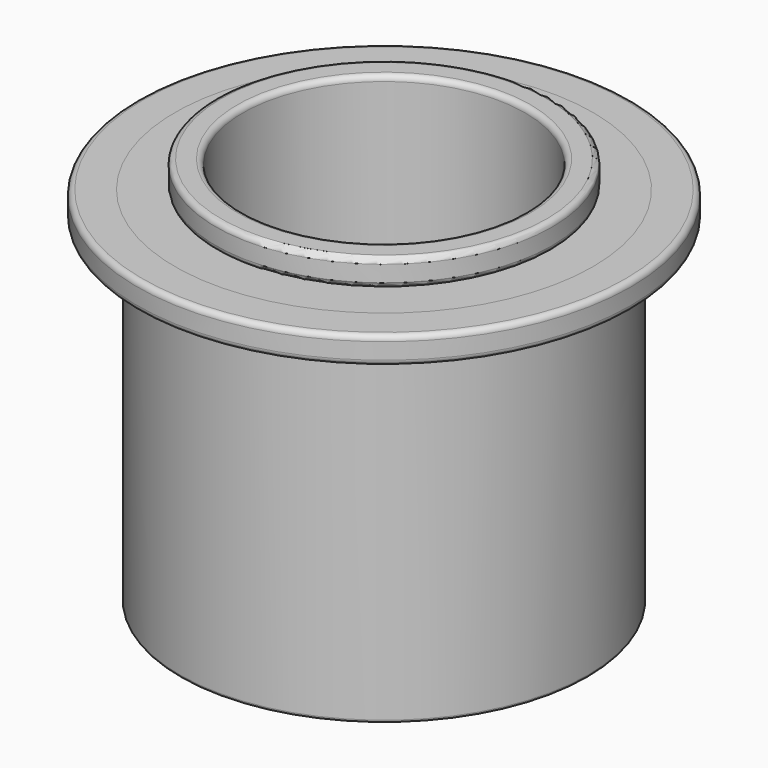
from build123d import *

# Parameters (mm, degrees)
FILLET_R    = 1
FILLET001_R = 0.5
FILLET002_R = 1
FILLET003_R = 0.5
FILLET004_R = 1
FILLET005_R = 0.5
FILLET006_R = 1
FILLET007_R = 0.5


with BuildPart() as rigid_sleeve:
    # Sketch → Revolution (revolve)
    with BuildSketch(Plane.XZ):
        Polygon((27.5, 67), (32.5, 67), (32.5, 62), (29, 62), (29, 0), (27.5, 0), align=None)
    revolve(axis=Axis((0, 0, 0), (0, 0, 1)))

    # Fillet
    fillet_edges = [rigid_sleeve.edges().sort_by_distance(p)[0] for p in [
        (-27.5, 0, 67),
        (-32.5, 0, 67),
        (-32.5, 0, 62),
        (-29, 0, 62),
    ]]
    fillet(fillet_edges, radius=FILLET_R)

    # Fillet001
    fillet001_edges = [rigid_sleeve.edges().sort_by_distance(p)[0] for p in [
        (-29, 0, 0),
        (-27.5, 0, 0),
    ]]
    fillet(fillet001_edges, radius=FILLET001_R)


with BuildPart() as soft_sleeve:
    # Sketch001 → Revolution001 (revolve)
    with BuildSketch(Plane.XZ):
        Polygon((26, 72), (31, 72), (31, 67), (27.5, 67), (27.5, 0), (26, 0), align=None)
    revolve(axis=Axis((0, 0, 0), (0, 0, 1)))

    # Fillet002
    fillet002_edges = [soft_sleeve.edges().sort_by_distance(p)[0] for p in [
        (-26, 0, 72),
        (-31, 0, 72),
        (-31, 0, 67),
        (-27.5, 0, 67),
    ]]
    fillet(fillet002_edges, radius=FILLET002_R)

    # Fillet003
    fillet003_edges = [soft_sleeve.edges().sort_by_distance(p)[0] for p in [
        (-27.5, 0, 0),
        (-26, 0, 0),
    ]]
    fillet(fillet003_edges, radius=FILLET003_R)


with BuildPart() as obj1:
    # Sketch002 → Revolution002 (revolve)
    with BuildSketch(Plane.XZ):
        Polygon((27.5, 67), (45.5, 67), (45.5, 62), (37.6, 62), (37.6, 0), (27.5, 0), align=None)
    revolve(axis=Axis((0, 0, 0), (0, 0, 1)))

    # Fillet004
    fillet004_edges = [obj1.edges().sort_by_distance(p)[0] for p in [
        (-27.5, 0, 67),
        (-45.5, 0, 67),
        (-45.5, 0, 62),
        (-37.6, 0, 62),
    ]]
    fillet(fillet004_edges, radius=FILLET004_R)

    # Fillet005
    fillet005_edges = [obj1.edges().sort_by_distance(p)[0] for p in [
        (-37.6, 0, 0),
        (-27.5, 0, 0),
    ]]
    fillet(fillet005_edges, radius=FILLET005_R)


with BuildPart() as obj2:
    # Sketch003 → Revolution003 (revolve)
    with BuildSketch(Plane.XZ):
        Polygon((27.5, 67), (39.5, 67), (39.5, 62), (31.35, 62), (31.35, 0), (27.5, 0), align=None)
    revolve(axis=Axis((0, 0, 0), (0, 0, 1)))

    # Fillet006
    fillet006_edges = [obj2.edges().sort_by_distance(p)[0] for p in [
        (-27.5, 0, 67),
        (-39.5, 0, 67),
        (-39.5, 0, 62),
        (-31.35, 0, 62),
    ]]
    fillet(fillet006_edges, radius=FILLET006_R)

    # Fillet007
    fillet007_edges = [obj2.edges().sort_by_distance(p)[0] for p in [
        (-31.35, 0, 0),
        (-27.5, 0, 0),
    ]]
    fillet(fillet007_edges, radius=FILLET007_R)


solid = Compound([rigid_sleeve.part, soft_sleeve.part, obj1.part, obj2.part])
